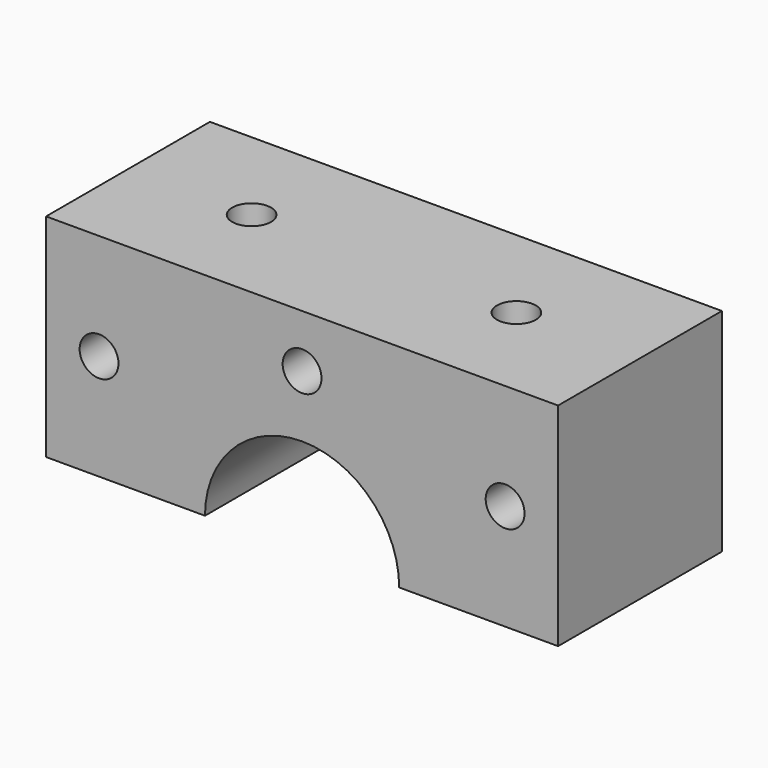
from build123d import *

# Parameters (mm, degrees)
F1_DEPTH = 29
F2_R     = 2.75
F3_DEPTH = 50
F4_R     = 2.75
F5_DEPTH = 50


with BuildPart() as f1:
    # F0 (on Front) → F1 (new body)
    with BuildSketch(Plane.XZ):
        with BuildLine():
            ThreePointArc((-13.75, 0), (0, 13.75), (13.75, 0))
            Line((13.75, 0), (36.25, 0))
            Line((36.25, 0), (36.25, 30))
            Line((36.25, 30), (-36.25, 30))
            Line((-36.25, 30), (-36.25, 0))
            Line((-36.25, 0), (-13.75, 0))
        make_face()
    extrude(amount=F1_DEPTH)

    # F2 (on face) → F3 (cut)
    with BuildSketch(Plane.XY.offset(30)):
        with Locations((-18.75, -14.5)):
            Circle(F2_R)
        with Locations((18.75, -14.5)):
            Circle(F2_R)
    extrude(amount=-F3_DEPTH, mode=Mode.SUBTRACT)

    # F4 (on face) → F5 (cut)
    with BuildSketch(Plane.XZ.offset(29)):
        with Locations((-28.75, 15)):
            Circle(F4_R)
        with Locations((0, 22.5)):
            Circle(F4_R)
        with Locations((28.75, 15)):
            Circle(F4_R)
    extrude(amount=-F5_DEPTH, mode=Mode.SUBTRACT)


solid = f1.part
